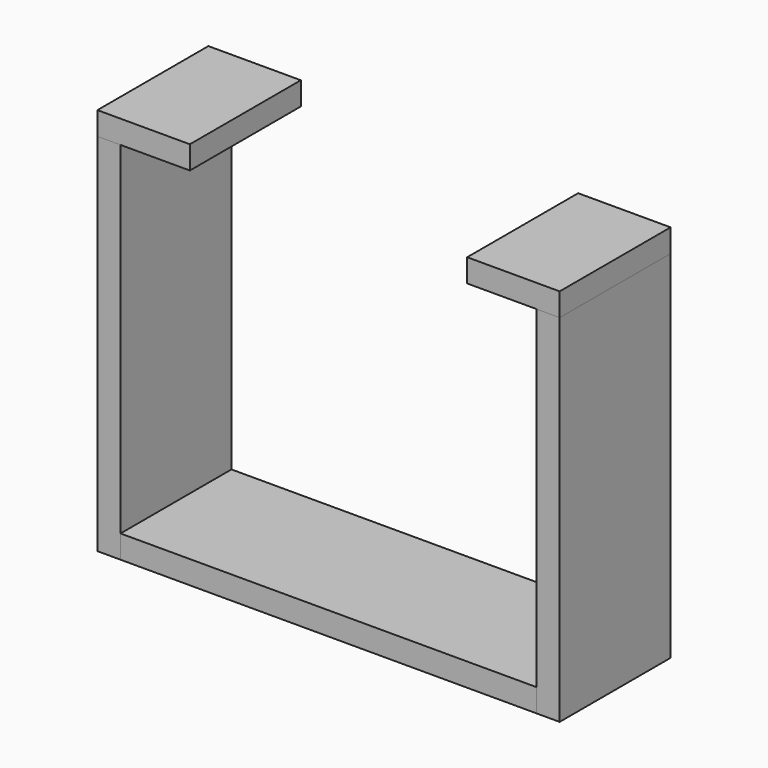
from build123d import *

# Parameters (mm, degrees)
BOX_W        = 100
BOX_H        = 30
BOX_DEPTH    = 5
BOX001_W     = 5
BOX001_H     = 30
BOX001_DEPTH = 84
BOX002_W     = 5
BOX002_H     = 30
BOX002_DEPTH = 82
BOX003_W     = 20
BOX003_H     = 30
BOX003_DEPTH = 5
BOX004_W     = 20
BOX004_H     = 30
BOX004_DEPTH = 5


with BuildPart() as base:
    # Box → Box (new body)
    with BuildSketch(Plane.XY):
        with Locations((50, 15)):
            Rectangle(BOX_W, BOX_H)
    extrude(amount=BOX_DEPTH)


with BuildPart() as obj1:
    # Box001 → Box001 (new body)
    with BuildSketch(Plane.XY):
        with Locations((2.5, 15)):
            Rectangle(BOX001_W, BOX001_H)
    extrude(amount=BOX001_DEPTH)


with BuildPart() as side_laser:
    # Box002 → Box002 (new body)
    with BuildSketch(Plane(origin=(95, 0, 0), x_dir=(1, 0, 0), z_dir=(0, 0, 1))):
        with Locations((2.5, 15)):
            Rectangle(BOX002_W, BOX002_H)
    extrude(amount=BOX002_DEPTH)


with BuildPart() as platform_laser:
    # Box003 → Box003 (new body)
    with BuildSketch(Plane(origin=(80, 0, 77), x_dir=(1, 0, 0), z_dir=(0, 0, 1))):
        with Locations((10, 15)):
            Rectangle(BOX003_W, BOX003_H)
    extrude(amount=BOX003_DEPTH)


with BuildPart() as obj2:
    # Box004 → Box004 (new body)
    with BuildSketch(Plane.XY.offset(79)):
        with Locations((10, 15)):
            Rectangle(BOX004_W, BOX004_H)
    extrude(amount=BOX004_DEPTH)


solid = Compound([base.part, obj1.part, side_laser.part, platform_laser.part, obj2.part])
